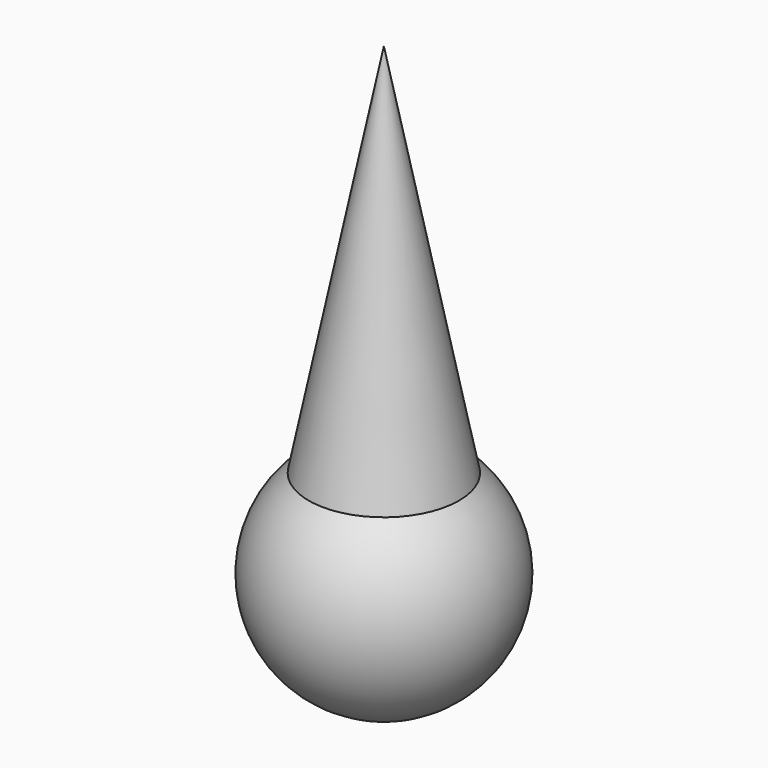
from build123d import *


with BuildPart() as cone:
    # Cone → Cone (revolve)
    with BuildSketch(Plane.XZ):
        Polygon((0, 0), (40, 0), (0, 200), align=None)
    revolve(axis=Axis((0, 0, 0), (0, 0, 1)))


with BuildPart() as fusion:
    # Sphere001 → Sphere001 (revolve)
    with BuildSketch(Plane.XZ):
        with BuildLine():
            ThreePointArc((0, -50), (50, 0), (0, 50))
            Line((0, 50), (0, -50))
        make_face()
    revolve(axis=Axis((0, 0, 0), (0, 0, 1)))

    # Fusion: union Cone
    add(cone.part)


solid = fusion.part
